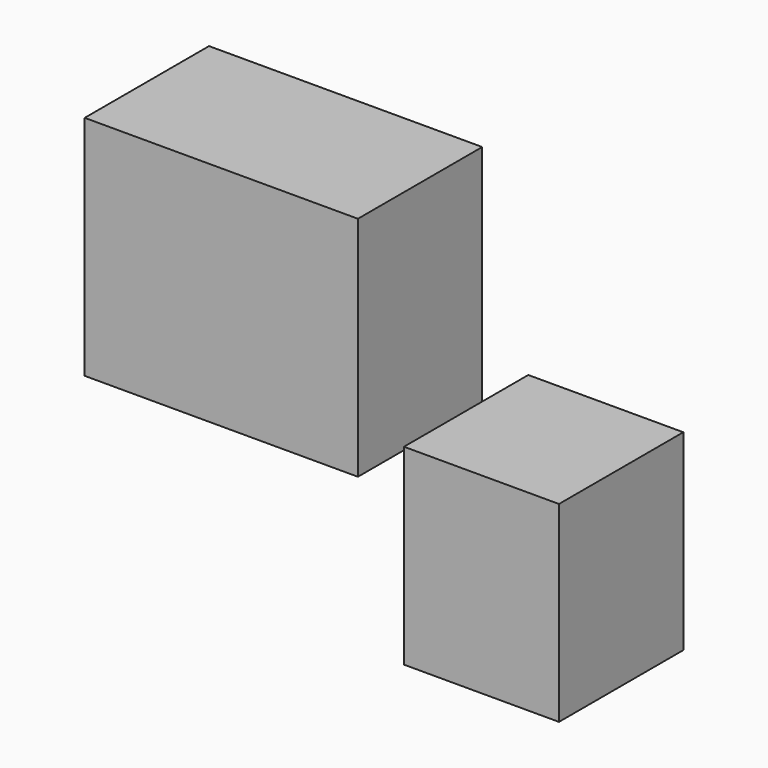
from build123d import *

# Parameters (mm, degrees)
F0_W     = 43.954745
F0_H     = 36.546638
F0_W_2   = 24.940618
F0_H_2   = 30.86709
F1_DEPTH = 25


with BuildPart() as f1:
    # F0 (on Front) → F1 (new body)
    with BuildSketch(Plane.XZ):
        with Locations((-41.855782, 27.039576)):
            Rectangle(F0_W, F0_H)
        Rectangle(F0_W_2, F0_H_2)
    extrude(amount=F1_DEPTH)


solid = f1.part
